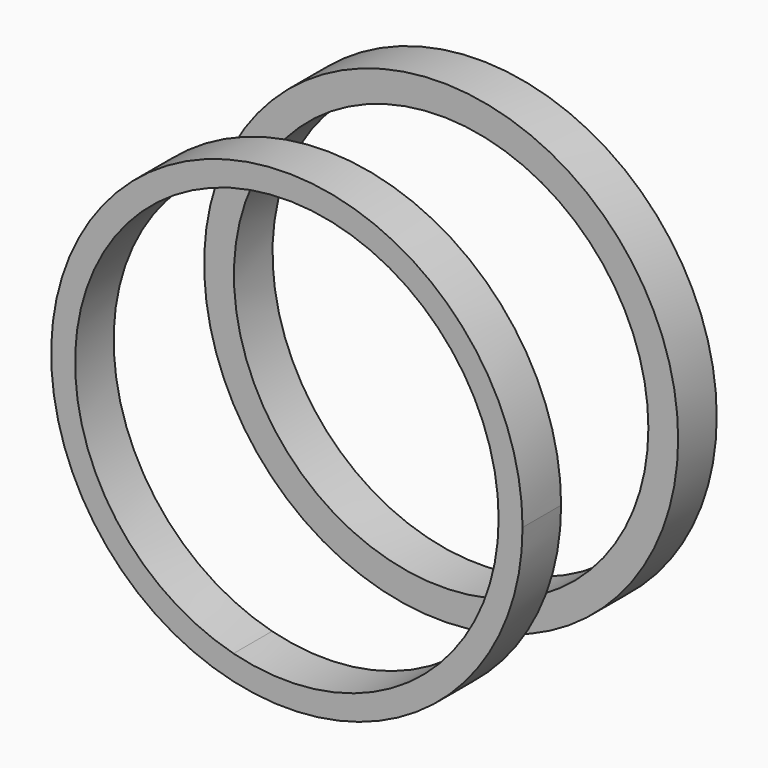
from build123d import *

# Parameters (mm, degrees)
F4_R     = 49.151803
F2_DEPTH = 10
F5_DEPTH = 10


with BuildPart() as f2:
    # F4 (on face) → F2 (new body)
    with BuildSketch(Plane.XZ):
        Circle(F4_R)
        with BuildLine():
            ThreePointArc((9.760141, -41.853813), (-33.663491, 26.7165), (42.976761, 0))
            ThreePointArc((42.976761, 0), (33.663491, -26.7165), (9.760141, -41.853813))
        make_face(mode=Mode.SUBTRACT)
    extrude(amount=-F2_DEPTH)


with BuildPart() as f5:
    # F1 (on offset) → F5 (new body)
    with BuildSketch(Plane.XZ.offset(30)):
        with BuildLine():
            ThreePointArc((-11.06216, -47.610492), (30.400871, -38.274238), (48.878731, 0))
            ThreePointArc((48.878731, 0), (-30.400871, 38.274238), (-11.06216, -47.610492))
        make_face()
        with BuildLine():
            ThreePointArc((43.919714, 0), (26.86163, -34.747577), (-11.06216, -42.503763))
            ThreePointArc((-11.06216, -42.503763), (-26.86163, 34.747577), (43.919714, 0))
        make_face(mode=Mode.SUBTRACT)
    extrude(amount=F5_DEPTH)


solid = Compound([f2.part, f5.part])
